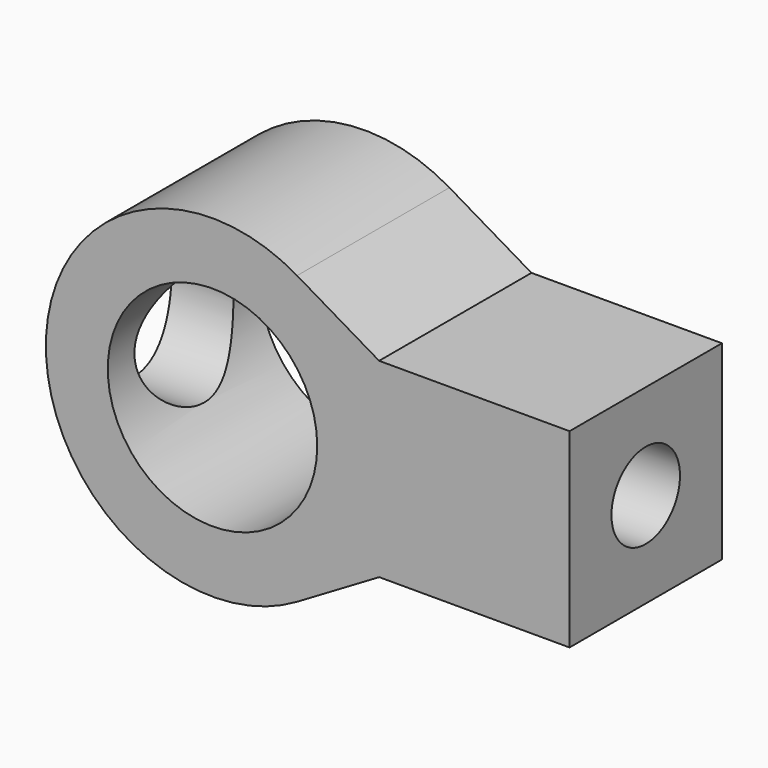
from build123d import *

# Parameters (mm, degrees)
F0_R           = 11
F1_DEPTH       = 20
F5_D           = 9
F5_START       = 3.5000001
F5_CBORE_D     = 13
F5_CBORE_DEPTH = 9
F9_D           = 13
F9_DEPTH       = 20
F9_START       = 1.2519233
F9_TIP         = 3.9055940237


with BuildPart() as f1:
    # F0 (on Front) → F1 (new body)
    with BuildSketch(Plane.XZ):
        with BuildLine():
            ThreePointArc((-18.6153846154, -15.0769230769), (-12.3057450128, -8.6824314212), (-10, 0))
            ThreePointArc((-10, 0), (-12.3057450128, 8.6824314212), (-18.6153846154, 15.0769230769))
            ThreePointArc((-18.6153846154, 15.0769230769), (-45, 0), (-18.6153846154, -15.0769230769))
        make_face()
        with Locations((-27.5, 0)):
            Circle(F0_R, mode=Mode.SUBTRACT)
        with BuildLine():
            ThreePointArc((-18.6153846154, 15.0769230769), (-12.3057450128, 8.6824314212), (-10, 0))
            Line((-10, 0), (-10, 10))
            Line((-10, 10), (-18.6153846154, 15.0769230769))
        make_face()
        with BuildLine():
            Line((-18.6153846154, -15.0769230769), (-10, -10))
            Line((-10, -10), (-10, 0))
            ThreePointArc((-10, 0), (-12.3057450128, -8.6824314212), (-18.6153846154, -15.0769230769))
        make_face()
        Polygon((-10, -10), (10, -10), (10, 10), (-10, 10), (-10, 0), align=None)
    extrude(amount=F1_DEPTH)

    # F5 (through all)
    # its depths count from where the whole tool has entered the part; down to there all is cleared
    with Locations(Plane(origin=(-20, 0, 0), x_dir=(0, 1, 0), z_dir=(-1, 0, 0)).offset(-F5_START)):
        with Locations((-10, 0)):
            CounterBoreHole(F5_D / 2, F5_CBORE_D / 2, F5_CBORE_DEPTH)

    # F9
    # its depths count from where the whole tool has entered the part; down to there all is cleared
    with Locations(Plane(origin=(-45, 0, 0), x_dir=(0, 1, 0), z_dir=(-1, 0, 0)).offset(-F9_START)):
        with Locations((-10, 0)):
            Hole(F9_D / 2, depth=F9_DEPTH)
            with Locations((0, 0, -(F9_DEPTH + F9_TIP / 2))):  # 118° drill point
                Cone(0, F9_D / 2, F9_TIP, mode=Mode.SUBTRACT)


solid = f1.part
